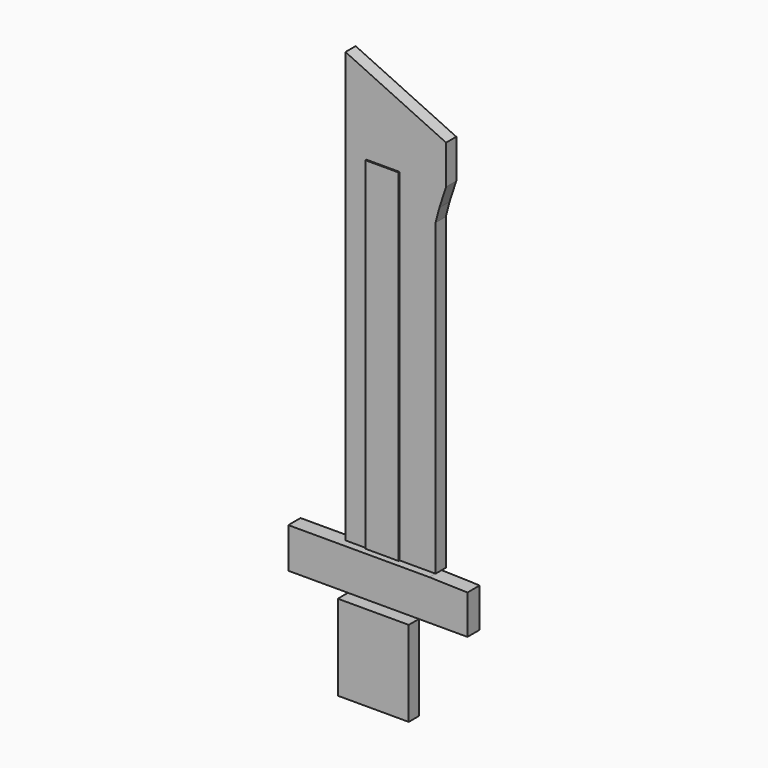
from build123d import *

# Parameters (mm, degrees)
F0_W     = 6.0439221561
F0_H     = 74.2538864724
F1_DEPTH = 2.54
F3_DEPTH = 1.524
F4_W     = 14.1242705286
F4_H     = 17.0067735016
F5_DEPTH = 2.54
F7_DEPTH = 0.254


with BuildPart() as f1:
    # F0 (on Front) → F1 (new body)
    with BuildSketch(Plane.XZ):
        Polygon((-41.3562618196, 76.4354392886), (-41.3562618196, -9.1730812564), (-23.4171245247, -9.1730812564), (-23.4171245247, 50.2098016441), (-23.4171245247, 52.3489303887), (-22.6470381021, 55.2581474185), (-21.3270969689, 59.313736856), (-21.3270969689, 67.0587420464), align=None)
        with Locations((-31.3708279282, 29.9317988101)):
            Rectangle(F0_W, F0_H, mode=Mode.SUBTRACT)
        with Locations((-31.3708279282, 29.9317988101)):
            Rectangle(F0_W, F0_H)
    extrude(amount=-F1_DEPTH)

    # F2 (on face) → F3 (join, symmetric)
    with BuildSketch(Plane.XZ):
        Polygon((-23.4171245247, -9.1730812564), (-41.3562618196, -9.1730812564), (-51.5162618196, -9.1730812564), (-51.5162618196, -17.1773023903), (-15.8537700772, -17.1773023903), (-15.8537700772, -9.3945432454), align=None)
    extrude(amount=F3_DEPTH, both=True)


with BuildPart() as f5:
    # F4 (on face) → F5 (new body)
    with BuildSketch(Plane.XZ.offset(1.524)):
        with Locations((-32.5722936541, -25.6806891412)):
            Rectangle(F4_W, F4_H)
    extrude(amount=F5_DEPTH)


with BuildPart() as f7:
    # F6 (on face) → F7 (new body)
    with BuildSketch(Plane.XZ):
        Polygon((-30.5545404553, 58.9207969606), (-37.1842980385, 58.9207969606), (-37.1842980385, 18.8539940864), (-37.1842980385, 3.6947226617), (-37.1842980385, -9.1730812564), (-30.5545404553, -9.1730812564), (-30.5545404553, 3.6947226617), (-30.5545404553, 15.450575389), (-30.5545404553, 18.8539940864), align=None)
    extrude(amount=F7_DEPTH)


solid = Compound([f1.part, f5.part, f7.part])
